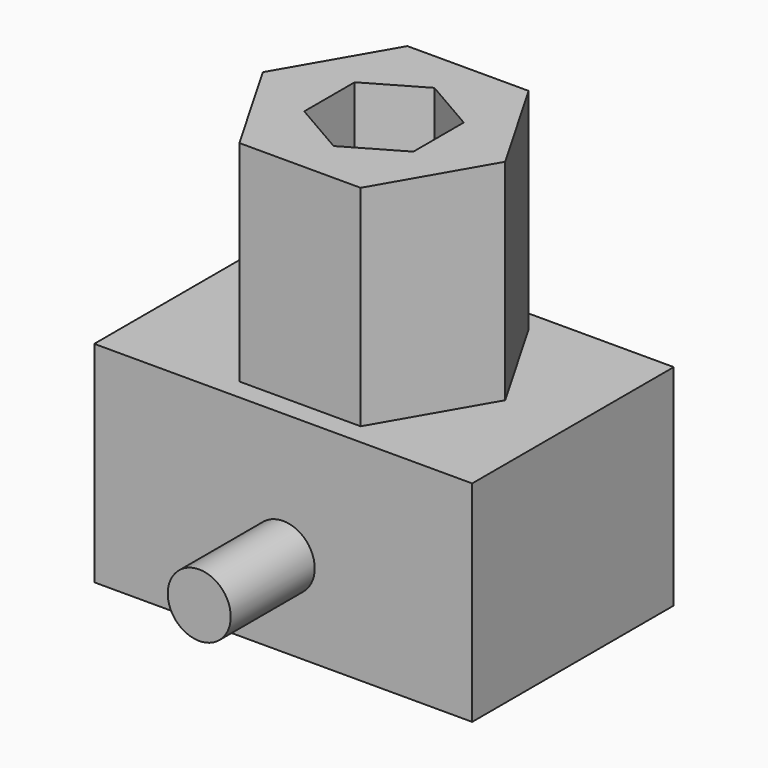
from build123d import *

# Parameters (mm, degrees)
F0_W     = 90
F0_H     = 60
F1_DEPTH = 50
F2_R     = 7.5
F3_DEPTH = 25
F5_DEPTH = 50
F7_DEPTH = 95


with BuildPart() as f1:
    # F0 (on Top) → F1 (new body)
    with BuildSketch(Plane.XY):
        Rectangle(F0_W, F0_H)
    extrude(amount=F1_DEPTH)

    # F2 (on face) → F3 (join)
    with BuildSketch(Plane.XZ.offset(30)):
        with Locations((0, 20)):
            Circle(F2_R)
    extrude(amount=F3_DEPTH)

    # F4 (on face) → F5 (join)
    with BuildSketch(Plane.XY.offset(50)):
        Polygon((-14.433757, -25), (14.433757, -25), (28.867513, 0), (14.433757, 25), (-14.433757, 25), (-28.867513, 0), align=None)
    extrude(amount=F5_DEPTH)

    # F6 (on face) → F7 (cut)
    with BuildSketch(Plane.XY.offset(100)):
        Polygon((12.990381, 7.5), (0, 15), (-12.990381, 7.5), (-12.990381, -7.5), (0, -15), (12.990381, -7.5), align=None)
    extrude(amount=-F7_DEPTH, mode=Mode.SUBTRACT)


solid = f1.part
